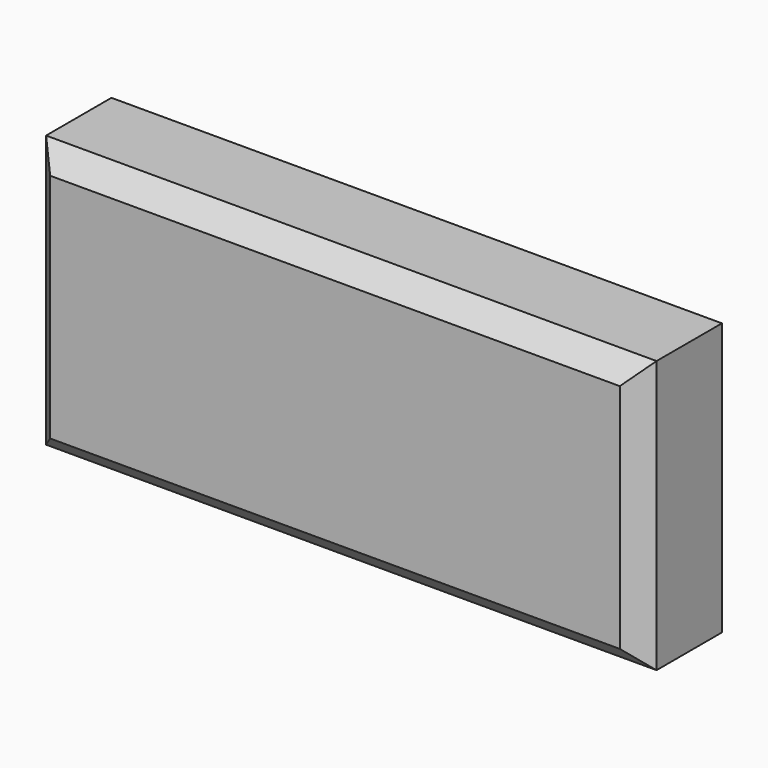
from build123d import *

# Parameters (mm, degrees)
F1_DEPTH = 25.4
F2_SIZE  = 5.08


with BuildPart() as f1:
    # F0 (on Front) → F1 (new body)
    with BuildSketch(Plane.XZ):
        Polygon((-76.056935, 50.757334), (-76.056935, 0), (-76.056935, -16.919112), (75.740695, -16.919112), (75.740695, 0), (75.740695, 50.757334), align=None)
    extrude(amount=F1_DEPTH)

    # F2
    f2_edges = [f1.edges().sort_by_distance(p)[0] for p in [
        (-76.056935, -25.4, 16.919111),
        (-0.15812, -25.4, -16.919112),
        (75.740695, -25.4, 16.919111),
        (-0.15812, -25.4, 50.757334),
    ]]
    chamfer(f2_edges, length=F2_SIZE)


solid = f1.part
